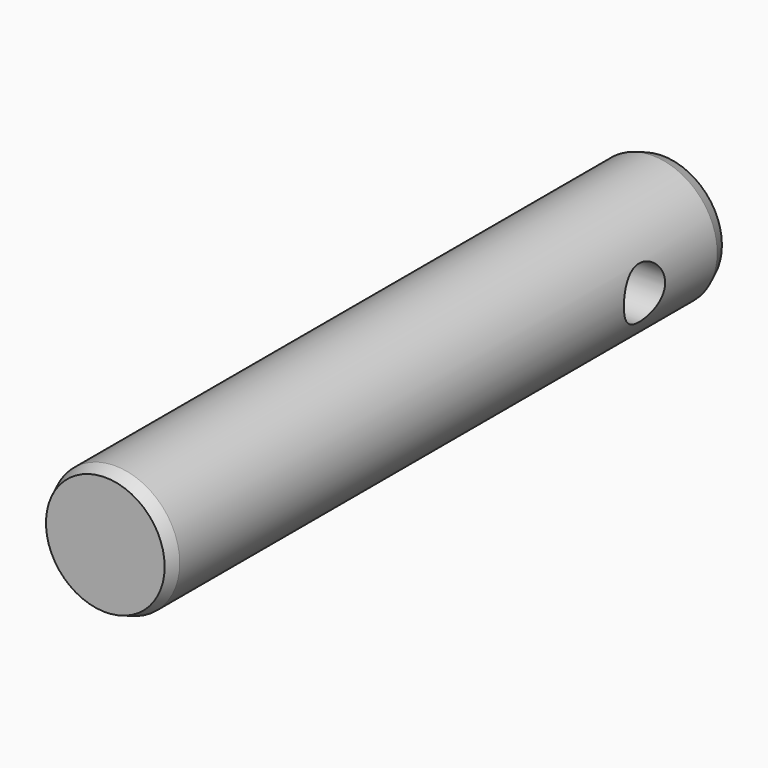
from build123d import *

# Parameters (mm, degrees)
F0_R     = 15.875
F1_DEPTH = 171.45
F2_R     = 6.35
F3_DEPTH = 25.4
F4_DEPTH = 25.4
F5_SIZE2 = 3.048
F5_SIZE  = 1.27
F6_SIZE2 = 3.048
F6_SIZE  = 1.27


with BuildPart() as f1:
    # F0 (on Front) → F1 (new body)
    with BuildSketch(Plane.XZ):
        Circle(F0_R)
    extrude(amount=F1_DEPTH)

    # F2 (on Right) → F3 (cut)
    with BuildSketch(Plane.YZ):
        with Locations((-25.4, 0)):
            Circle(F2_R)
    extrude(amount=-F3_DEPTH, mode=Mode.SUBTRACT)

    # F4 (cut): a face of the model
    f4_faces = [f1.faces().sort_by_distance(p)[0] for p in [
        (0, -25.4, 0),
    ]]
    extrude(f4_faces, amount=-F4_DEPTH, mode=Mode.SUBTRACT)

    # F5
    f5_edges = [f1.edges().sort_by_distance(p)[0] for p in [
        (-15.875, -171.45, 0),
    ]]
    f5_side = f1.faces().sort_by_distance((0, -171.45, 0))[0]
    chamfer(f5_edges, length=F5_SIZE, length2=F5_SIZE2, reference=f5_side)

    # F6
    f6_edges = [f1.edges().sort_by_distance(p)[0] for p in [
        (-15.875, 0, 0),
    ]]
    f6_side = f1.faces().sort_by_distance((0, 0, 0))[0]
    chamfer(f6_edges, length=F6_SIZE, length2=F6_SIZE2, reference=f6_side)


solid = f1.part
